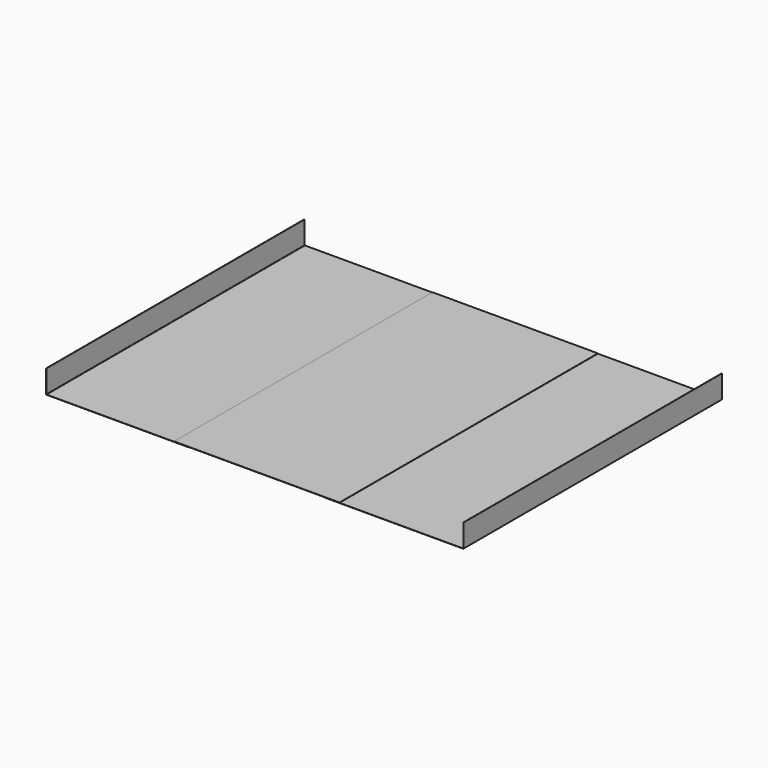
from build123d import *

# Parameters (mm, degrees)
F1_DEPTH = 2440


with BuildPart() as f1:
    # F0 (on Front) → F1 (new body)
    with BuildSketch(Plane.XZ):
        with BuildLine():
            ThreePointArc((0, 3), (0.87868, 0.87868), (3, 0))
            Line((3, 0), (1075, 0))
            Line((1075, 0), (1075, 2))
            Line((1075, 2), (967, 2))
            Line((967, 2), (5, 2))
            ThreePointArc((5, 2), (2.87868, 2.87868), (2, 5))
            Line((2, 5), (2, 175))
            Line((2, 175), (0, 175))
            Line((0, 175), (0, 3))
        make_face()
        with BuildLine():
            Line((2217, 2), (2109, 2))
            Line((2109, 2), (2109, 0))
            Line((2109, 0), (3151, 0))
            ThreePointArc((3151, 0), (3153.12132, 0.87868), (3154, 3))
            Line((3154, 3), (3154, 175))
            Line((3154, 175), (3152, 175))
            Line((3152, 175), (3152, 5))
            ThreePointArc((3152, 5), (3151.12132, 2.87868), (3149, 2))
            Line((3149, 2), (2217, 2))
        make_face()
        Polygon((967, 2), (1075, 2), (2109, 2), (2217, 2), (2217, 4), (967, 4), align=None)
    extrude(amount=-F1_DEPTH)


solid = f1.part
